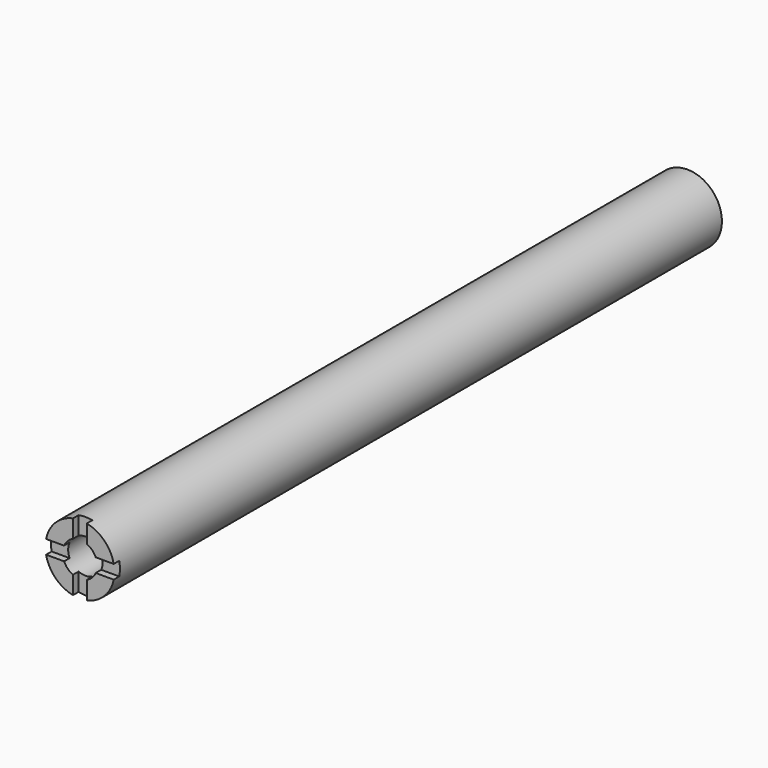
from build123d import *

# Parameters (mm, degrees)
F0_R          = 12.7
F1_DEPTH      = 279.4
F2_R          = 6.35
F3_DEPTH      = 25.4
F4_W          = 5.08
F4_H          = 2.54
F5_DEPTH      = 12.701
F5_DEPTH_BACK = 25.4
F6_W          = 2.54
F6_H          = 5.08
F7_DEPTH      = 12.701
F7_DEPTH_BACK = 12.701


with BuildPart() as f1:
    # F0 (on Front) → F1 (new body)
    with BuildSketch(Plane.XZ):
        Circle(F0_R)
    extrude(amount=F1_DEPTH)

    # F2 (on face) → F3 (cut)
    with BuildSketch(Plane.XZ.offset(279.4)):
        Circle(F2_R)
    extrude(amount=-F3_DEPTH, mode=Mode.SUBTRACT)

    # F4 (on Top) → F5 (cut, two sides)
    with BuildSketch(Plane.XY) as f5_sk:
        with Locations((0, -278.13)):
            Rectangle(F4_W, F4_H)
    extrude(amount=-F5_DEPTH, mode=Mode.SUBTRACT)
    extrude(f5_sk.sketch, amount=F5_DEPTH_BACK, mode=Mode.SUBTRACT)

    # F6 (on Right) → F7 (cut, two sides)
    with BuildSketch(Plane.YZ) as f7_sk:
        with Locations((-278.13, 0)):
            Rectangle(F6_W, F6_H)
    extrude(amount=-F7_DEPTH, mode=Mode.SUBTRACT)
    extrude(f7_sk.sketch, amount=F7_DEPTH_BACK, mode=Mode.SUBTRACT)


solid = f1.part
